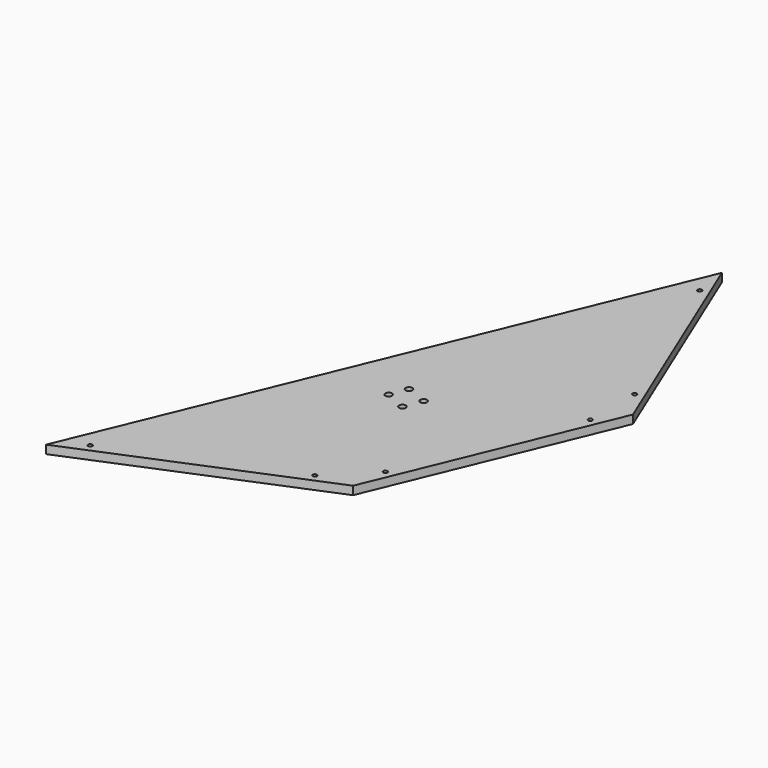
from build123d import *

# Parameters (mm, degrees)
F1_DEPTH = 12.7
F3_DEPTH = 12.701
F4_R     = 5.08
F5_DEPTH = 25.4


with BuildPart() as f1:
    # F0 (on Top) → F1 (new body)
    with BuildSketch(Plane.XY):
        Polygon((349.925731, -349.925731), (494.869714, 0), (349.925731, 349.925731), (0, -494.869714), align=None)
    extrude(amount=F1_DEPTH)

    # F2 (on face) → F3 (cut, through all)
    with BuildSketch(Plane.XY.offset(12.7)):
        with BuildLine():
            ThreePointArc((43.288021, -466.629443), (44.712917, -465.460061), (45.248001, -463.696126))
            ThreePointArc((45.248001, -463.696126), (39.433085, -461.93219), (43.288021, -466.629443))
        make_face()
        with BuildLine():
            ThreePointArc((299.347591, -360.566096), (300.772487, -359.396714), (301.307571, -357.632779))
            ThreePointArc((301.307571, -357.632779), (295.492655, -355.868843), (299.347591, -360.566096))
        make_face()
        with BuildLine():
            ThreePointArc((360.566096, -299.347591), (360.746772, -298.751982), (360.807779, -298.132571))
            ThreePointArc((360.807779, -298.132571), (358.252191, -295.018577), (354.699461, -296.917551))
            Line((354.699461, -296.917551), (357.632779, -298.132571))
            Line((357.632779, -298.132571), (360.566096, -299.347591))
        make_face()
        with BuildLine():
            Line((357.632779, -298.132571), (354.699461, -296.917551))
            ThreePointArc((354.699461, -296.917551), (356.417759, -301.065888), (360.566096, -299.347591))
            Line((360.566096, -299.347591), (357.632779, -298.132571))
        make_face()
        with BuildLine():
            ThreePointArc((466.629443, -43.288021), (466.810119, -42.692412), (466.871126, -42.073001))
            ThreePointArc((466.871126, -42.073001), (464.315537, -38.959007), (460.762808, -40.857981))
            Line((460.762808, -40.857981), (463.696126, -42.073001))
            Line((463.696126, -42.073001), (466.629443, -43.288021))
        make_face()
        with BuildLine():
            Line((463.696126, -42.073001), (460.762808, -40.857981))
            ThreePointArc((460.762808, -40.857981), (462.481106, -45.006318), (466.629443, -43.288021))
            Line((466.629443, -43.288021), (463.696126, -42.073001))
        make_face()
        with BuildLine():
            ThreePointArc((466.629443, 43.288021), (460.582132, 41.453589), (466.871126, 42.073001))
            ThreePointArc((466.871126, 42.073001), (466.810119, 42.692412), (466.629443, 43.288021))
        make_face()
        with BuildLine():
            ThreePointArc((360.566096, 299.347591), (354.518786, 297.513159), (360.807779, 298.132571))
            ThreePointArc((360.807779, 298.132571), (360.746772, 298.751982), (360.566096, 299.347591))
        make_face()
    extrude(amount=-F3_DEPTH, mode=Mode.SUBTRACT)

    # F4 (on face) → F5 (cut)
    with BuildSketch(Plane.XY.offset(12.7)):
        with Locations((246.830538, -114.899813)):
            Circle(F4_R)
        with Locations((279.469849, -128.058023)):
            Circle(F4_R)
        with Locations((268.784191, -154.847956)):
            Circle(F4_R)
        with Locations((236.779314, -140.80974)):
            Circle(F4_R)
    extrude(amount=-F5_DEPTH, mode=Mode.SUBTRACT)


solid = f1.part
